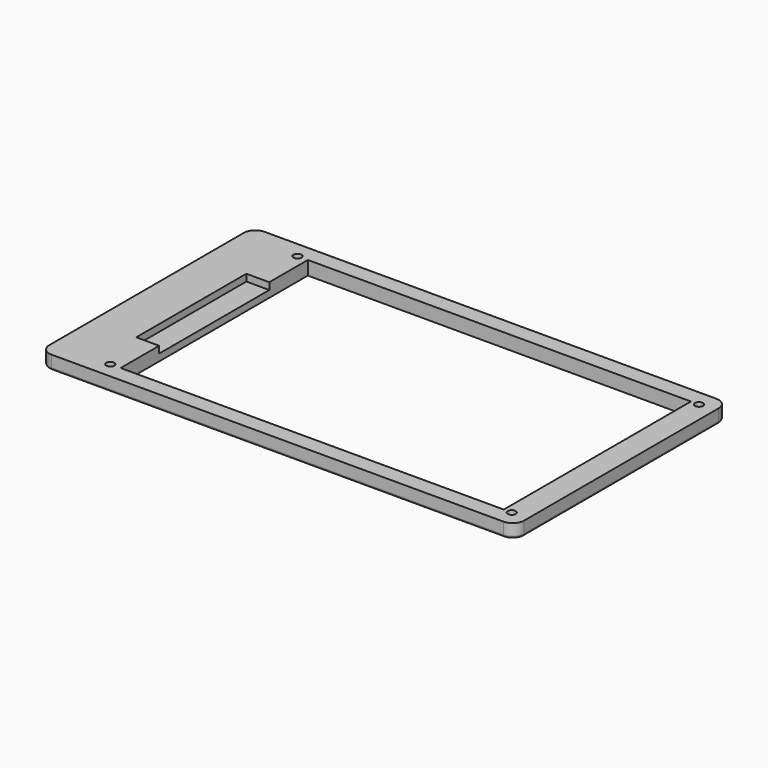
from build123d import *

# Parameters (mm, degrees)
F0_W     = 207
F0_H     = 116
F1_DEPTH = 6
F2_W     = 167
F2_H     = 102
F3_DEPTH = 25
F4_R     = 1.75
F5_DEPTH = 25
F6_R     = 5
F7_R     = 1
F8_W     = 10
F8_H     = 60
F9_DEPTH = 3


with BuildPart() as f1:
    # F0 (on Top) → F1 (new body)
    with BuildSketch(Plane.XY):
        with Locations((103.5, -58)):
            Rectangle(F0_W, F0_H)
    extrude(amount=F1_DEPTH)

    # F2 (on face) → F3 (cut)
    with BuildSketch(Plane.XY):
        with Locations((113, -58)):
            Rectangle(F2_W, F2_H)
    extrude(amount=F3_DEPTH, mode=Mode.SUBTRACT)

    # F4 (on face) → F5 (cut)
    with BuildSketch(Plane(origin=(0, 0, 0), x_dir=(1, 0, 0), z_dir=(0, 0, -1))):
        with Locations((200, 7)):
            Circle(F4_R)
        with Locations((200, 109)):
            Circle(F4_R)
        with Locations((25, 109)):
            Circle(F4_R)
        with Locations((25, 7)):
            Circle(F4_R)
    extrude(amount=-F5_DEPTH, mode=Mode.SUBTRACT)

    # F6
    f6_edges = [f1.edges().sort_by_distance(p)[0] for p in [
        (207, 0, 3),
        (207, -116, 3),
        (0, -116, 3),
        (0, 0, 3),
    ]]
    fillet(f6_edges, radius=F6_R)

    # F7
    f7_edges = [f1.edges().sort_by_distance(p)[0] for p in [
        (207, -58, 0),
        (198.25, -7, 0),
    ]]
    fillet(f7_edges, radius=F7_R)

    # F8 (on face) → F9 (cut)
    with BuildSketch(Plane.XY.offset(6)):
        with Locations((24.5, -58)):
            Rectangle(F8_W, F8_H)
    extrude(amount=-F9_DEPTH, mode=Mode.SUBTRACT)


solid = f1.part
